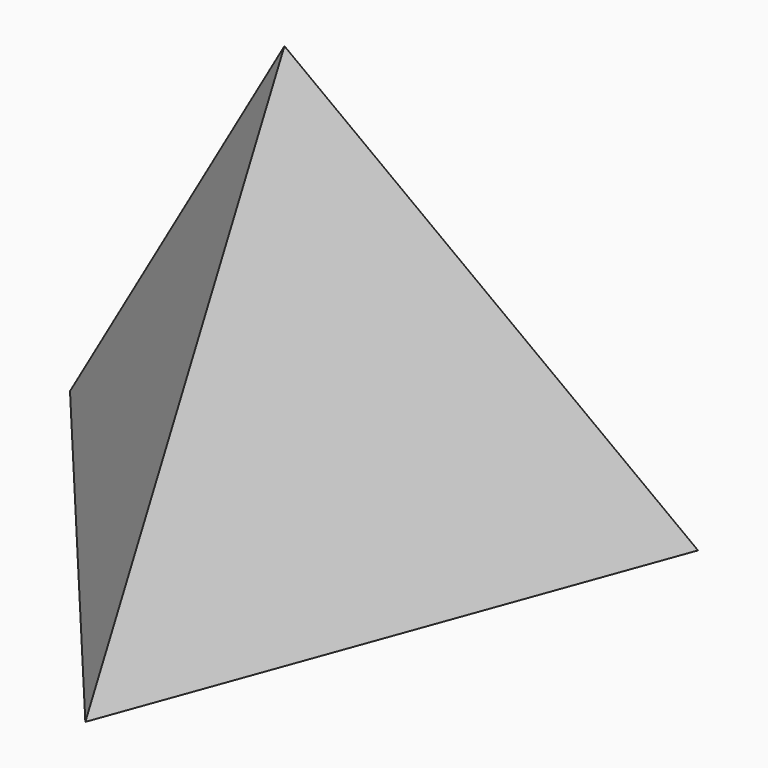
from build123d import *


with BuildPart() as f3:
    # F0 (on Top) → F3 section 0
    with BuildSketch(Plane.XY, mode=Mode.PRIVATE) as f3_s0:
        Polygon((25.181978, -144.468686), (112.522563, 94.042576), (-137.704541, 50.426111), align=None)
    loft([f3_s0.sketch, Vertex(0, 0, 203.2)])


solid = f3.part
